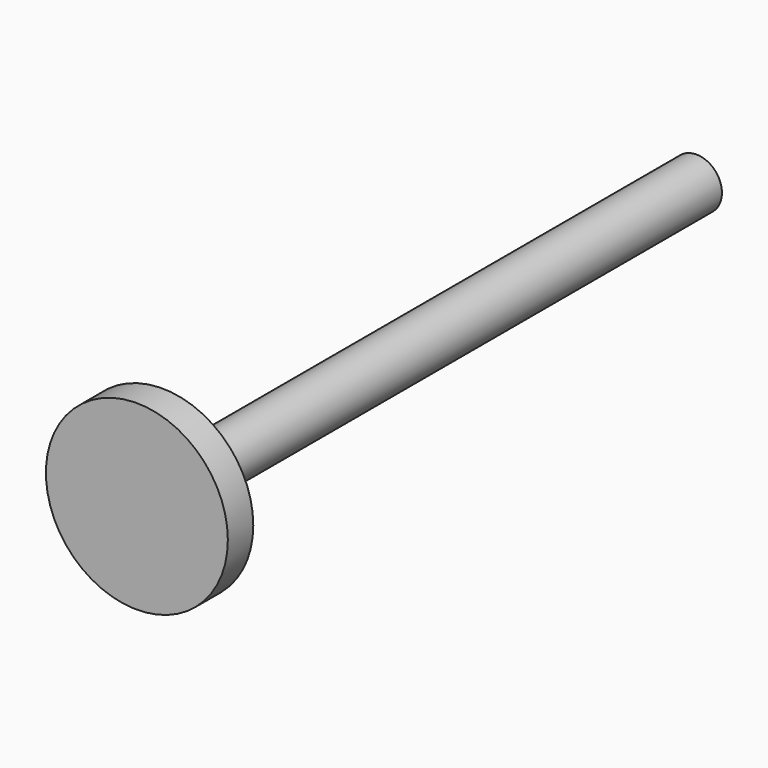
from build123d import *

# Parameters (mm, degrees)
F0_R      = 72.672804
F1_DEPTH  = 25.4
F2_R      = 20.344191
F3_DEPTH  = 508
F3_FACE_R = 20.344191
F4_DEPTH  = 25.4


with BuildPart() as f1:
    # F0 (on Front) → F1 (new body)
    with BuildSketch(Plane.XZ):
        Circle(F0_R)
    extrude(amount=F1_DEPTH)

    # F2 (on Front) → F3 (join)
    with BuildSketch(Plane.XZ):
        Circle(F2_R)
    extrude(amount=-F3_DEPTH)

    # F3_face (on face) → F4 (join)
    with BuildSketch(Plane(origin=(0, 508, 0), x_dir=(1, 0, 0), z_dir=(0, 1, 0))):
        Circle(F3_FACE_R)
    extrude(amount=F4_DEPTH)


solid = f1.part
